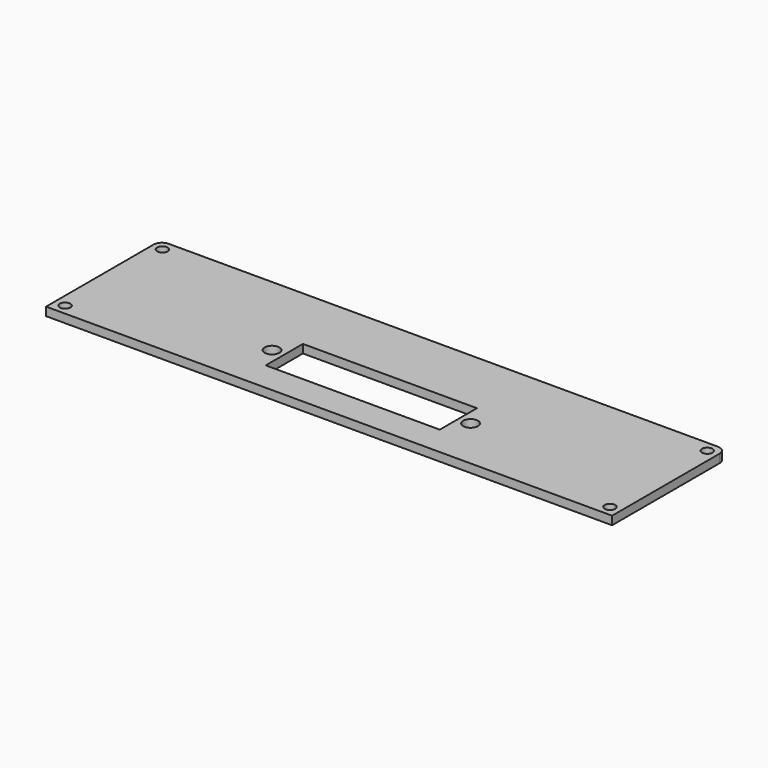
from build123d import *

# Parameters (mm, degrees)
SKETCH_W           = 134
SKETCH_H           = 33.8
PAD_DEPTH          = 2
SKETCH001_R        = 1.75
POCKET_DEPTH       = 2.001
FILLET_R           = 2
SKETCH002_R        = 1.25
POCKET001_DEPTH    = 278.424154
POLARPATTERN_COUNT = 2
SKETCH003_W        = 41.2
SKETCH003_H        = 11
POCKET002_DEPTH    = 5


with BuildPart() as part:
    # Sketch → Pad (new body)
    with BuildSketch(Plane.XY):
        Rectangle(SKETCH_W, SKETCH_H)
    extrude(amount=PAD_DEPTH)

    # Sketch001 (on Face6 of Pad) → Pocket (cut, through all)
    with BuildSketch(Plane.XY.offset(2)):
        with Locations((-23.5, -4.4)):
            Circle(SKETCH001_R)
        with Locations((23.5, -4.4)):
            Circle(SKETCH001_R)
    extrude(amount=-POCKET_DEPTH, mode=Mode.SUBTRACT)

    # Fillet
    fillet_edges = [part.edges().sort_by_distance(p)[0] for p in [
        (-67, 16.9, 1),
        (67, 16.9, 1),
    ]]
    fillet(fillet_edges, radius=FILLET_R)

    # Sketch002 → Pocket001 (cut, through all)
    with BuildSketch(Plane.XY):
        with Locations((-64.5, -14.4)):
            Circle(SKETCH002_R)
    pocket001 = extrude(amount=POCKET001_DEPTH, mode=Mode.SUBTRACT)

    # Mirrored: Pocket001 across YZ
    add(pocket001.mirror(Plane.YZ), mode=Mode.SUBTRACT)

    # Mirrored001: Pocket001 across XZ
    add(pocket001.mirror(Plane.XZ), mode=Mode.SUBTRACT)

    # PolarPattern: Pocket001 ×2 about axis
    polarpattern_axis = Axis((0, 0, 0), (0, 0, 1))
    for i in range(1, POLARPATTERN_COUNT):
        add(pocket001.rotate(polarpattern_axis, i * 360 / POLARPATTERN_COUNT), mode=Mode.SUBTRACT)

    # Sketch003 (on Face2 of PolarPattern) → Pocket002 (cut)
    with BuildSketch(Plane(origin=(0, 0, 0), x_dir=(1, 0, 0), z_dir=(0, 0, -1))):
        with Locations((0, 4.4)):
            Rectangle(SKETCH003_W, SKETCH003_H)
    extrude(amount=-POCKET002_DEPTH, mode=Mode.SUBTRACT)


solid = part.part
